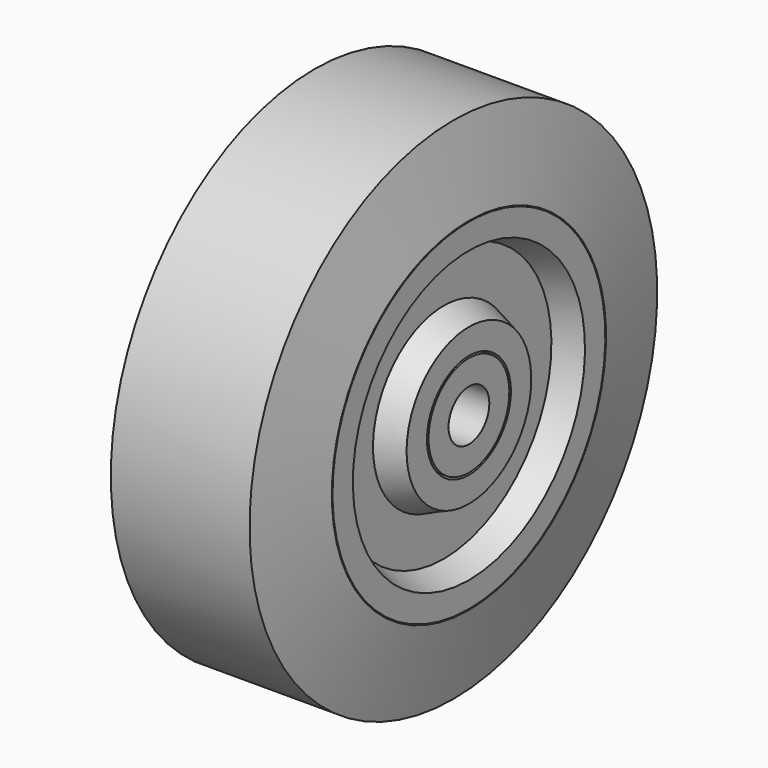
from build123d import *

# Parameters (mm, degrees)
F2_R     = 47.0938119368
F3_DEPTH = 1


with BuildPart() as f1:
    # F0 (on Front) → F1 (revolve)
    with BuildSketch(Plane.XZ):
        Polygon((-20, -11.8900358561), (0, -11.8900358561), (20, -11.8900358561), (20, -6), (0, -6), (-20, -6), align=None)
    revolve(axis=Axis((-66.6633010662, 0, 0), (-1, 0, 0)))



with BuildPart() as f1b:
    # F0 (on Front) → F1, piece 2 (revolve)
    with BuildSketch(Plane.XZ):
        Polygon((-16.3393602265, -60), (0, -60), (16.3393602265, -60), (20, -40.3654314578), (0, -40.3654314578), (-20, -40.3654314578), align=None)
        Polygon((-16.3393602265, -60), (0, -60), (16.3393602265, -60), (20, -40.3654314578), (0, -40.3654314578), (-20, -40.3654314578), align=None)
    revolve(axis=Axis((-66.6633010662, 0, 0), (-1, 0, 0)))


with BuildPart() as f1c:
    # F0 (on Front) → F1, piece 3 (revolve)
    with BuildSketch(Plane.XZ):
        Polygon((0, -40.1654314578), (20, -40.1654314578), (20, -34.172013402), (14.0782324597, -31.6885687669), (14.0782324597, -20.8386002505), (20, -18.3551556154), (20, -12.3617375596), (0, -12.3617375596), (-20, -12.3617375596), (-20, -18.3551556154), (-14.0782324597, -20.8386002505), (-14.0782324597, -31.6885687669), (-20, -34.172013402), (-20, -40.1654314578), align=None)
    revolve(axis=Axis((-66.6633010662, 0, 0), (-1, 0, 0)))


with BuildPart() as f1_1:
    add(f1.part)

    add(f1b.part)  # F3 merges F1b

    add(f1c.part)  # F3 merges F1c
    # F2 (on Right) → F3 (join, symmetric)
    with BuildSketch(Plane.YZ):
        Circle(F2_R)
    extrude(amount=F3_DEPTH, both=True)


solid = f1_1.part
